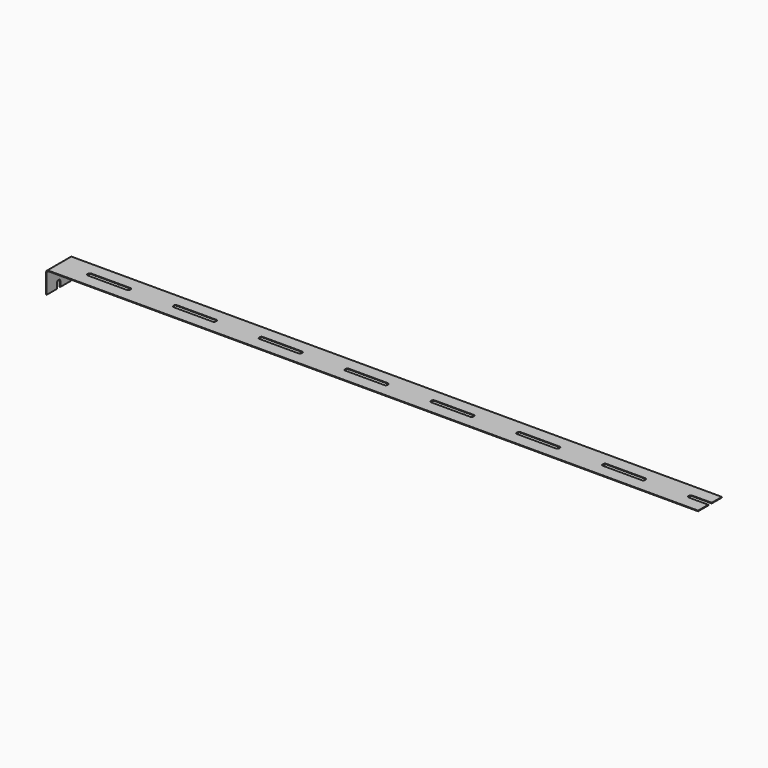
from build123d import *

# Parameters (mm, degrees)
F0_W     = 3
F0_H     = 3
F1_DEPTH = 0.15
F2_DEPTH = 1.9
F3_W     = 0.15
F3_H     = 7
F4_DEPTH = 5
F6_DEPTH = 25
F7_R     = 0.5


with BuildPart() as f1:
    # F0 (on Top) → F1 (new body)
    with BuildSketch(Plane.XY):
        with Locations((72.2, 2)):
            Rectangle(F0_W, F0_H)
        with BuildLine():
            Line((10.1, -0.5), (10.1, -3.5))
            Line((10.1, -3.5), (20.2, -3.5))
            Line((20.2, -3.5), (30.3, -3.5))
            Line((30.3, -3.5), (30.3, -0.5))
            Line((30.3, -0.5), (25.7, -0.5))
            ThreePointArc((25.7, -0.5), (25.4171572875, -0.3828427125), (25.3, -0.1))
            Line((25.3, -0.1), (25.3, 0.1))
            ThreePointArc((25.3, 0.1), (25.4171572875, 0.3828427125), (25.7, 0.5))
            Line((25.7, 0.5), (30.3, 0.5))
            Line((30.3, 0.5), (30.3, 3.5))
            Line((30.3, 3.5), (20.2, 3.5))
            Line((20.2, 3.5), (10.1, 3.5))
            Line((10.1, 3.5), (10.1, 0.5))
            Line((10.1, 0.5), (14.7, 0.5))
            ThreePointArc((14.7, 0.5), (14.9828427125, 0.3828427125), (15.1, 0.1))
            Line((15.1, 0.1), (15.1, -0.1))
            ThreePointArc((15.1, -0.1), (14.9828427125, -0.3828427125), (14.7, -0.5))
            Line((14.7, -0.5), (10.1, -0.5))
        make_face()
        with BuildLine():
            Line((30.3, -0.5), (30.3, -3.5))
            Line((30.3, -3.5), (40.4, -3.5))
            Line((40.4, -3.5), (50.5, -3.5))
            Line((50.5, -3.5), (50.5, -0.5))
            Line((50.5, -0.5), (45.9, -0.5))
            ThreePointArc((45.9, -0.5), (45.6171572875, -0.3828427125), (45.5, -0.1))
            Line((45.5, -0.1), (45.5, 0.1))
            ThreePointArc((45.5, 0.1), (45.6171572875, 0.3828427125), (45.9, 0.5))
            Line((45.9, 0.5), (50.5, 0.5))
            Line((50.5, 0.5), (50.5, 3.5))
            Line((50.5, 3.5), (40.4, 3.5))
            Line((40.4, 3.5), (30.3, 3.5))
            Line((30.3, 3.5), (30.3, 0.5))
            Line((30.3, 0.5), (34.9, 0.5))
            ThreePointArc((34.9, 0.5), (35.1828427125, 0.3828427125), (35.3, 0.1))
            Line((35.3, 0.1), (35.3, -0.1))
            ThreePointArc((35.3, -0.1), (35.1828427125, -0.3828427125), (34.9, -0.5))
            Line((34.9, -0.5), (30.3, -0.5))
        make_face()
        with BuildLine():
            Line((50.5, -0.5), (50.5, -3.5))
            Line((50.5, -3.5), (60.6, -3.5))
            Line((60.6, -3.5), (70.7, -3.5))
            Line((70.7, -3.5), (70.7, -0.5))
            Line((70.7, -0.5), (66.1, -0.5))
            ThreePointArc((66.1, -0.5), (65.8171572875, -0.3828427125), (65.7, -0.1))
            Line((65.7, -0.1), (65.7, 0.1))
            ThreePointArc((65.7, 0.1), (65.8171572875, 0.3828427125), (66.1, 0.5))
            Line((66.1, 0.5), (70.7, 0.5))
            Line((70.7, 0.5), (70.7, 3.5))
            Line((70.7, 3.5), (60.6, 3.5))
            Line((60.6, 3.5), (50.5, 3.5))
            Line((50.5, 3.5), (50.5, 0.5))
            Line((50.5, 0.5), (55.1, 0.5))
            ThreePointArc((55.1, 0.5), (55.3828427125, 0.3828427125), (55.5, 0.1))
            Line((55.5, 0.1), (55.5, -0.1))
            ThreePointArc((55.5, -0.1), (55.3828427125, -0.3828427125), (55.1, -0.5))
            Line((55.1, -0.5), (50.5, -0.5))
        make_face()
        with BuildLine():
            Line((0, 3.5), (0, -3.5))
            Line((0, -3.5), (10.1, -3.5))
            Line((10.1, -3.5), (10.1, -0.5))
            Line((10.1, -0.5), (5.5, -0.5))
            ThreePointArc((5.5, -0.5), (5.2171572875, -0.3828427125), (5.1, -0.1))
            Line((5.1, -0.1), (5.1, 0.1))
            ThreePointArc((5.1, 0.1), (5.2171572875, 0.3828427125), (5.5, 0.5))
            Line((5.5, 0.5), (10.1, 0.5))
            Line((10.1, 0.5), (10.1, 3.5))
            Line((10.1, 3.5), (0, 3.5))
        make_face()
        with Locations((72.2, 2)):
            Rectangle(F0_W, F0_H)
        with Locations((72.2, -2)):
            Rectangle(F0_W, F0_H)
        with Locations((72.2, 2)):
            Rectangle(F0_W, F0_H)
        with BuildLine():
            Line((73.7, -0.5), (73.7, -3.5))
            Line((73.7, -3.5), (80.8, -3.5))
            Line((80.8, -3.5), (90.9, -3.5))
            Line((90.9, -3.5), (90.9, -0.5))
            Line((90.9, -0.5), (86.3, -0.5))
            ThreePointArc((86.3, -0.5), (86.0171572875, -0.3828427125), (85.9, -0.1))
            Line((85.9, -0.1), (85.9, 0.1))
            ThreePointArc((85.9, 0.1), (86.0171572875, 0.3828427125), (86.3, 0.5))
            Line((86.3, 0.5), (90.9, 0.5))
            Line((90.9, 0.5), (90.9, 3.5))
            Line((90.9, 3.5), (80.8, 3.5))
            Line((80.8, 3.5), (73.7, 3.5))
            Line((73.7, 3.5), (73.7, 0.5))
            Line((73.7, 0.5), (75.3, 0.5))
            ThreePointArc((75.3, 0.5), (75.5828427125, 0.3828427125), (75.7, 0.1))
            Line((75.7, 0.1), (75.7, -0.1))
            ThreePointArc((75.7, -0.1), (75.5828427125, -0.3828427125), (75.3, -0.5))
            Line((75.3, -0.5), (73.7, -0.5))
        make_face()
        with Locations((72.2, -2)):
            Rectangle(F0_W, F0_H)
        with BuildLine():
            Line((90.9, -0.5), (90.9, -3.5))
            Line((90.9, -3.5), (101, -3.5))
            Line((101, -3.5), (111.1, -3.5))
            Line((111.1, -3.5), (111.1, -0.5))
            Line((111.1, -0.5), (106.5, -0.5))
            ThreePointArc((106.5, -0.5), (106.2171572875, -0.3828427125), (106.1, -0.1))
            Line((106.1, -0.1), (106.1, 0.1))
            ThreePointArc((106.1, 0.1), (106.2171572875, 0.3828427125), (106.5, 0.5))
            Line((106.5, 0.5), (111.1, 0.5))
            Line((111.1, 0.5), (111.1, 3.5))
            Line((111.1, 3.5), (101, 3.5))
            Line((101, 3.5), (90.9, 3.5))
            Line((90.9, 3.5), (90.9, 0.5))
            Line((90.9, 0.5), (95.5, 0.5))
            ThreePointArc((95.5, 0.5), (95.7828427125, 0.3828427125), (95.9, 0.1))
            Line((95.9, 0.1), (95.9, -0.1))
            ThreePointArc((95.9, -0.1), (95.7828427125, -0.3828427125), (95.5, -0.5))
            Line((95.5, -0.5), (90.9, -0.5))
        make_face()
        with BuildLine():
            Line((111.1, -0.5), (111.1, -3.5))
            Line((111.1, -3.5), (121.2, -3.5))
            Line((121.2, -3.5), (131.3, -3.5))
            Line((131.3, -3.5), (131.3, -0.5))
            Line((131.3, -0.5), (126.7, -0.5))
            ThreePointArc((126.7, -0.5), (126.4171572875, -0.3828427125), (126.3, -0.1))
            Line((126.3, -0.1), (126.3, 0.1))
            ThreePointArc((126.3, 0.1), (126.4171572875, 0.3828427125), (126.7, 0.5))
            Line((126.7, 0.5), (131.3, 0.5))
            Line((131.3, 0.5), (131.3, 3.5))
            Line((131.3, 3.5), (121.2, 3.5))
            Line((121.2, 3.5), (111.1, 3.5))
            Line((111.1, 3.5), (111.1, 0.5))
            Line((111.1, 0.5), (115.7, 0.5))
            ThreePointArc((115.7, 0.5), (115.9828427125, 0.3828427125), (116.1, 0.1))
            Line((116.1, 0.1), (116.1, -0.1))
            ThreePointArc((116.1, -0.1), (115.9828427125, -0.3828427125), (115.7, -0.5))
            Line((115.7, -0.5), (111.1, -0.5))
        make_face()
        with BuildLine():
            Line((131.3, -0.5), (131.3, -3.5))
            Line((131.3, -3.5), (141.4, -3.5))
            Line((141.4, -3.5), (151.5, -3.5))
            Line((151.5, -3.5), (151.5, -0.5))
            Line((151.5, -0.5), (146.9, -0.5))
            ThreePointArc((146.9, -0.5), (146.6171572875, -0.3828427125), (146.5, -0.1))
            Line((146.5, -0.1), (146.5, 0.1))
            ThreePointArc((146.5, 0.1), (146.6171572875, 0.3828427125), (146.9, 0.5))
            Line((146.9, 0.5), (151.5, 0.5))
            Line((151.5, 0.5), (151.5, 3.5))
            Line((151.5, 3.5), (141.4, 3.5))
            Line((141.4, 3.5), (131.3, 3.5))
            Line((131.3, 3.5), (131.3, 0.5))
            Line((131.3, 0.5), (135.9, 0.5))
            ThreePointArc((135.9, 0.5), (136.1828427125, 0.3828427125), (136.3, 0.1))
            Line((136.3, 0.1), (136.3, -0.1))
            ThreePointArc((136.3, -0.1), (136.1828427125, -0.3828427125), (135.9, -0.5))
            Line((135.9, -0.5), (131.3, -0.5))
        make_face()
    extrude(amount=F1_DEPTH)

    # F2 (add): a face of the model
    f2_faces = [f1.faces().sort_by_distance(p)[0] for p in [
        (0, 0, 0.075),
    ]]
    extrude(f2_faces, amount=F2_DEPTH)

    # F3 (on face) → F4 (join)
    with BuildSketch(Plane(origin=(0, 0, 0), x_dir=(1, 0, 0), z_dir=(0, 0, -1))):
        with Locations((-1.825, 0)):
            Rectangle(F3_W, F3_H)
    extrude(amount=F4_DEPTH)

    # F5 (on face) → F6 (cut)
    with BuildSketch(Plane(origin=(-1.9, 0, 0), x_dir=(0, -1, 0), z_dir=(-1, 0, 0))):
        with BuildLine():
            ThreePointArc((0.5, -3.75), (0.3828427125, -3.4671572875), (0.1, -3.35))
            Line((0.1, -3.35), (-0.1, -3.35))
            ThreePointArc((-0.1, -3.35), (-0.3828427125, -3.4671572875), (-0.5, -3.75))
            Line((-0.5, -3.75), (-0.5, -5))
            Line((-0.5, -5), (0.5, -5))
            Line((0.5, -5), (0.5, -3.75))
        make_face()
    extrude(amount=-F6_DEPTH, mode=Mode.SUBTRACT)

    # F7
    f7_edges = [f1.edges().sort_by_distance(p)[0] for p in [
        (-1.9, 0, 0.15),
        (-1.75, 0, 0),
    ]]
    fillet(f7_edges, radius=F7_R)


solid = f1.part
